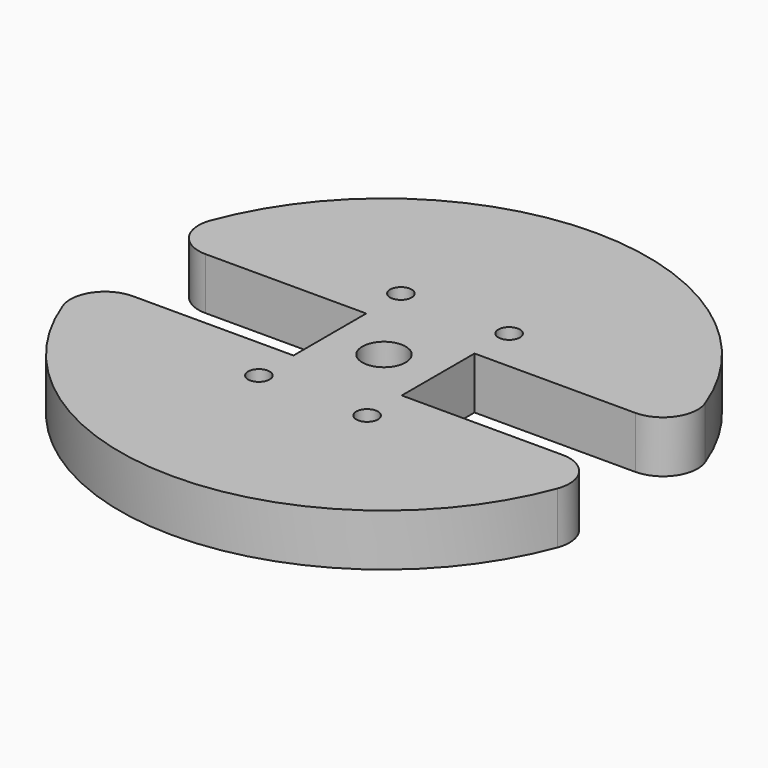
from build123d import *

# Parameters (mm, degrees)
SKETCH_R        = 60.95906
PAD_DEPTH       = 12
SKETCH001_R     = 5
POCKET_DEPTH    = 12.001
SKETCH002_R     = 2.5
POCKET005_DEPTH = 357.671689
POCKET004_DEPTH = 357.671689


with BuildPart() as part:
    # Sketch → Pad (new body)
    with BuildSketch(Plane.XY):
        Circle(SKETCH_R)
    extrude(amount=PAD_DEPTH)

    # Sketch001 → Pocket (cut, through all)
    with BuildSketch(Plane(origin=(0, 0, 0), x_dir=(-1, 0, 0), z_dir=(0, 0, -1))):
        Circle(SKETCH001_R)
    extrude(amount=-POCKET_DEPTH, mode=Mode.SUBTRACT)

    # Sketch002 → Pocket005 (cut, through all)
    with BuildSketch(Plane(origin=(0, 0, 0), x_dir=(-1, 0, 0), z_dir=(0, 0, -1))):
        with Locations((12.5, 20.5)):
            Circle(SKETCH002_R)
        with Locations((12.5, -20.5)):
            Circle(SKETCH002_R)
    pocket005 = extrude(amount=-POCKET005_DEPTH, mode=Mode.SUBTRACT)

    # Mirrored001: Pocket005 across Sketch002 V_Axis
    add(pocket005.mirror(Plane(origin=(0, 0, 0), x_dir=(0, 0, -1), z_dir=(-1, 0, 0))), mode=Mode.SUBTRACT)

    # Sketch005 → Pocket004 (cut, through all)
    with BuildSketch(Plane(origin=(0, 0, 0), x_dir=(-1, 0, 0), z_dir=(0, 0, -1))):
        with BuildLine():
            Line((12.5, 10.5), (49.622697, 10.5))
            ThreePointArc((49.622697, 10.5), (56.193721, 13.936925), (57.118715, 21.294587))
            ThreePointArc((57.118706, -21.294612), (60.95906, -1.3e-05), (57.118715, 21.294587))
            ThreePointArc((57.118706, -21.294612), (56.193728, -13.936936), (49.622697, -10.5))
            Line((12.5, -10.5), (49.622697, -10.5))
            Line((12.5, 0), (12.5, -10.5))
            Line((12.5, 10.5), (12.5, 0))
        make_face()
    pocket004 = extrude(amount=-POCKET004_DEPTH, mode=Mode.SUBTRACT)

    # Mirrored: Pocket004 across Sketch005 V_Axis
    add(pocket004.mirror(Plane(origin=(0, 0, 0), x_dir=(0, 0, -1), z_dir=(-1, 0, 0))), mode=Mode.SUBTRACT)


solid = part.part
